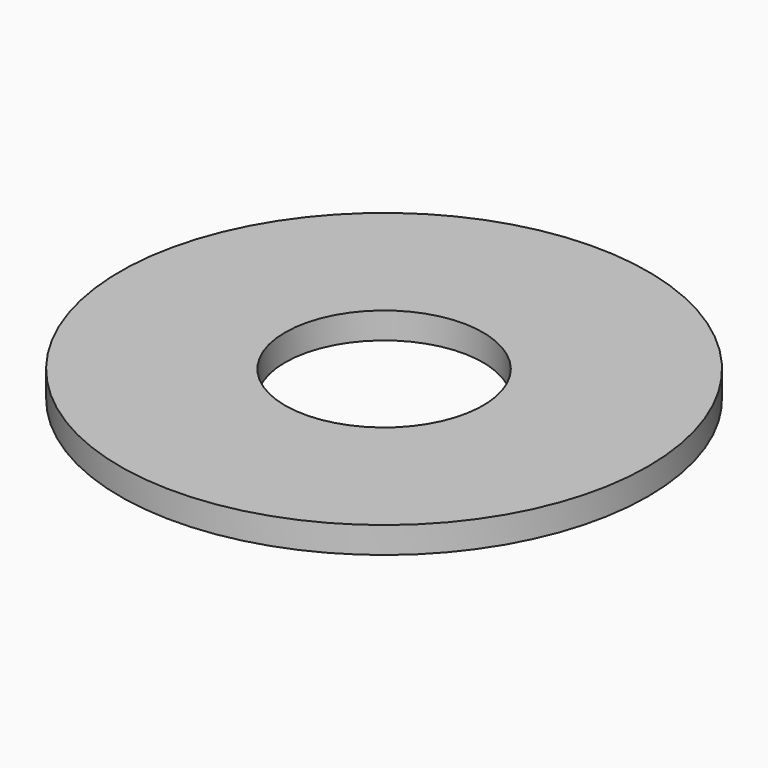
from build123d import *

# Parameters (mm, degrees)
F0_R     = 20
F1_DEPTH = 2
F2_D     = 15


with BuildPart() as f1:
    # F0 (on Top) → F1 (new body)
    with BuildSketch(Plane.XY):
        with Locations((-6.0339552129, 19.0680723852)):
            Circle(F0_R)
    extrude(amount=F1_DEPTH)

    # F2 (through all)
    with Locations(Plane(origin=(0, 0, 0), x_dir=(1, 0, 0), z_dir=(0, 0, -1))):
        with Locations((-6.0339552129, -19.0680723852)):
            Hole(F2_D / 2)


solid = f1.part
